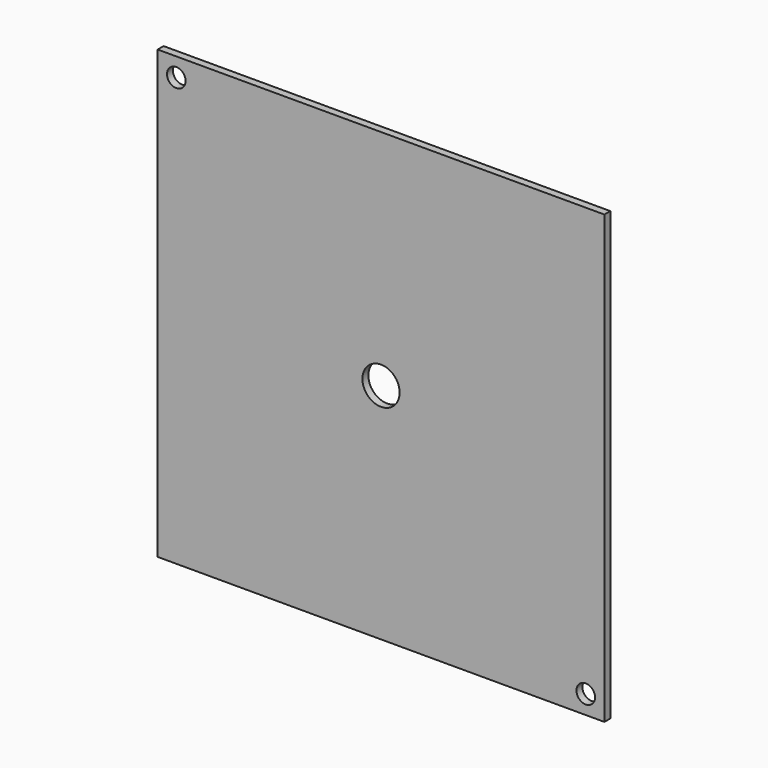
from build123d import *

# Parameters (mm, degrees)
F0_W     = 120
F0_H     = 120
F1_DEPTH = 2
F2_R     = 2.5
F3_DEPTH = 2.001
F4_R     = 5
F5_DEPTH = 2.001


with BuildPart() as f1:
    # F0 (on Front) → F1 (new body)
    with BuildSketch(Plane.XZ):
        Rectangle(F0_W, F0_H)
    extrude(amount=F1_DEPTH)

    # F2 (on face) → F3 (cut, through all)
    with BuildSketch(Plane.XZ.offset(2)):
        with Locations((-55, 55)):
            Circle(F2_R)
        with Locations((55, -55)):
            Circle(F2_R)
    extrude(amount=-F3_DEPTH, mode=Mode.SUBTRACT)

    # F4 (on face) → F5 (cut, through all)
    with BuildSketch(Plane.XZ.offset(2)):
        Circle(F4_R)
    extrude(amount=-F5_DEPTH, mode=Mode.SUBTRACT)


solid = f1.part
